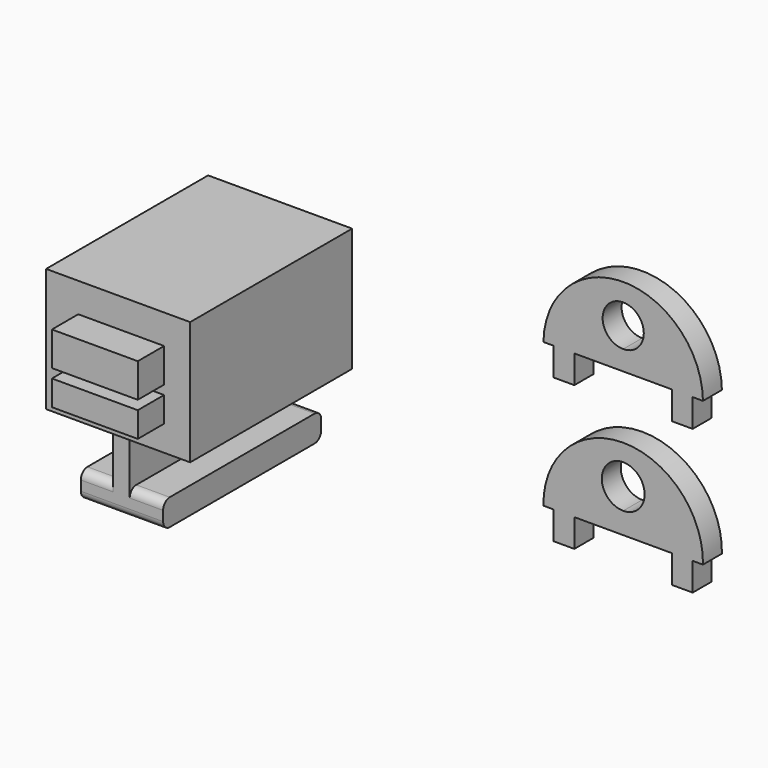
from build123d import *

# Parameters (mm, degrees)
F0_W     = 17.3881341827
F0_H     = 14.2131341827
F1_DEPTH = 30.48
F2_W     = 17.3881341827
F2_H     = 14.2131341827
F3_DEPTH = 0.762
F4_W     = 3.175
F4_H     = 4.318
F5_DEPTH = 3.6576
F6_R     = 1.27
F7_W     = 13.2463751361
F7_H     = 5.2447561175
F7_H_2   = 3.8999486715
F8_DEPTH = 5.08


with BuildPart() as f1:
    # F0 (on Front) → F1 (new body)
    with BuildSketch(Plane.XZ):
        Polygon((-10.1287699878, 35.9654333509), (-32.3537699878, 35.9654333509), (-32.3537699878, 16.9154333509), (-22.6019585633, 16.9154333509), (-21.3319585633, 16.9154333509), (-20.0619585633, 16.9154333509), (-10.1287699878, 16.9154333509), align=None)
        with Locations((-21.2412699878, 26.4404333509)):
            Rectangle(F0_W, F0_H, mode=Mode.SUBTRACT)
        Polygon((-21.3319585633, 16.9154333509), (-22.6019585633, 16.9154333509), (-22.6019585633, 9.8034333509), (-27.6028375745, 9.8034333509), (-27.6028375745, 5.7394333509), (-21.2528375745, 5.7394333509), align=None)
        Polygon((-20.0619585633, 9.8034333509), (-20.0619585633, 16.9154333509), (-21.3319585633, 16.9154333509), (-21.2528375745, 5.7394333509), (-14.9028375745, 5.7394333509), (-14.9028375745, 9.8034333509), align=None)
    extrude(amount=F1_DEPTH)

    # F2 (on face) → F3 (join)
    with BuildSketch(Plane.XZ.offset(30.48)):
        Polygon((-32.3537699878, 35.9654333509), (-32.3537699878, 16.9154333509), (-22.6019585633, 16.9154333509), (-20.0619585633, 16.9154333509), (-10.1287699878, 16.9154333509), (-10.1287699878, 35.9654333509), align=None)
        with Locations((-21.2412699878, 26.4404333509)):
            Rectangle(F2_W, F2_H, mode=Mode.SUBTRACT)
        with Locations((-21.2412699878, 26.4404333509)):
            Rectangle(F2_W, F2_H)
    extrude(amount=F3_DEPTH)

    # F6
    f6_edges = [f1.edges().sort_by_distance(p)[0] for p in [
        (-17.482398, 0, 9.803433),
        (-25.102398, -30.48, 9.803433),
        (-21.252838, -30.48, 5.739433),
        (-21.252838, 0, 5.739433),
        (-17.482398, -30.48, 9.803433),
        (-25.102398, 0, 9.803433),
    ]]
    fillet(f6_edges, radius=F6_R)

    # F7 (on face) → F8 (join)
    with BuildSketch(Plane.XZ.offset(31.242)):
        with Locations((-20.7667914219, 28.7951519713)):
            Rectangle(F7_W, F7_H)
        with Locations((-20.7667914219, 22.8107506409)):
            Rectangle(F7_W, F7_H_2)
    extrude(amount=F8_DEPTH)


with BuildPart() as f5:
    # F4 (on Front) → F5 (new body)
    with BuildSketch(Plane.XZ):
        with BuildLine():
            Line((45.3319033712, 10.3666791692), (46.9194033712, 10.3666791692))
            ThreePointArc((46.9194033712, 10.3666791692), (34.6162783712, 22.9325723409), (22.3131533712, 10.3666791692))
            Line((22.3131533712, 10.3666791692), (23.9006533712, 10.3666791692))
            Line((23.9006533712, 10.3666791692), (27.0756533712, 10.3666791692))
            Line((27.0756533712, 10.3666791692), (42.1569033712, 10.3666791692))
            Line((42.1569033712, 10.3666791692), (45.3319033712, 10.3666791692))
        make_face()
        with BuildLine():
            ThreePointArc((34.6162783712, 13.6726312353), (32.2799489852, 19.3130293252), (37.9203470751, 16.9766999392))
            ThreePointArc((37.9203470751, 16.9766999392), (36.9526077572, 14.6403705532), (34.6162783712, 13.6726312353))
        make_face(mode=Mode.SUBTRACT)
        with Locations((43.7444033712, 8.2076791692)):
            Rectangle(F4_W, F4_H)
        with Locations((25.4881533712, 8.2076791692)):
            Rectangle(F4_W, F4_H)
    extrude(amount=F5_DEPTH)


with BuildPart() as f5b:
    # F4 (on Front) → F5, piece 2 (new body)
    with BuildSketch(Plane.XZ):
        with BuildLine():
            Line((45.3319033712, 32.6032228768), (46.9194033712, 32.6032228768))
            ThreePointArc((46.9194033712, 32.6032228768), (34.6162783712, 44.7693123418), (22.3131533712, 32.6032228768))
            Line((22.3131533712, 32.6032228768), (23.9006533712, 32.6032228768))
            Line((23.9006533712, 32.6032228768), (27.0756533712, 32.6032228768))
            Line((27.0756533712, 32.6032228768), (34.6162783712, 32.6032228768))
            Line((34.6162783712, 32.6032228768), (42.1569033712, 32.6032228768))
            Line((42.1569033712, 32.6032228768), (45.3319033712, 32.6032228768))
        make_face()
        with BuildLine():
            ThreePointArc((37.7912783712, 38.8154155762), (36.8613424015, 36.5703515459), (34.6162783712, 35.6404155762))
            ThreePointArc((34.6162783712, 35.6404155762), (32.3712143409, 41.0604796065), (37.7912783712, 38.8154155762))
        make_face(mode=Mode.SUBTRACT)
        with Locations((43.7444033712, 30.4442228768)):
            Rectangle(F4_W, F4_H)
        with Locations((25.4881533712, 30.4442228768)):
            Rectangle(F4_W, F4_H)
    extrude(amount=F5_DEPTH)


solid = Compound([f1.part, f5.part, f5b.part])
